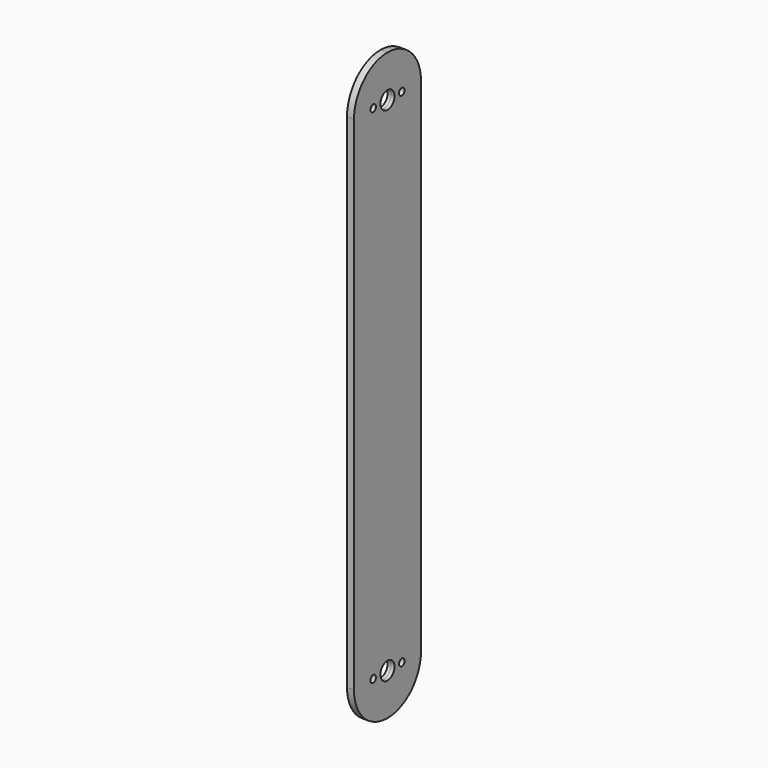
from build123d import *

# Parameters (mm, degrees)
F0_R     = 1.5875
F0_R_2   = 4.0000047
F1_DEPTH = 1.5875


with BuildPart() as f1:
    # F0 (on Right) → F1 (new body, symmetric)
    with BuildSketch(Plane.YZ):
        with BuildLine():
            ThreePointArc((0, 133.35), (-13.4703841816, 127.7703841816), (-19.05, 114.3))
            Line((-19.05, 114.3), (-19.05, -114.3))
            ThreePointArc((-19.05, -114.3), (0, -133.35), (19.05, -114.3))
            Line((19.05, -114.3), (19.05, 114.3))
            ThreePointArc((19.05, 114.3), (13.4703841816, 127.7703841816), (0, 133.35))
        make_face()
        with Locations((-8.128, -114.3)):
            Circle(F0_R, mode=Mode.SUBTRACT)
        with Locations((0, -114.3)):
            Circle(F0_R_2, mode=Mode.SUBTRACT)
        with Locations((8.128, -114.3)):
            Circle(F0_R, mode=Mode.SUBTRACT)
        with Locations((-8.128, 114.3)):
            Circle(F0_R, mode=Mode.SUBTRACT)
        with BuildLine():
            ThreePointArc((4.0000047, 114.3), (-2.8284304481, 111.4715695519), (0, 118.3000047))
            ThreePointArc((0, 118.3000047), (2.8284304481, 117.1284304481), (4.0000047, 114.3))
        make_face(mode=Mode.SUBTRACT)
        with Locations((8.128, 114.3)):
            Circle(F0_R, mode=Mode.SUBTRACT)
    extrude(amount=F1_DEPTH, both=True)


solid = f1.part
